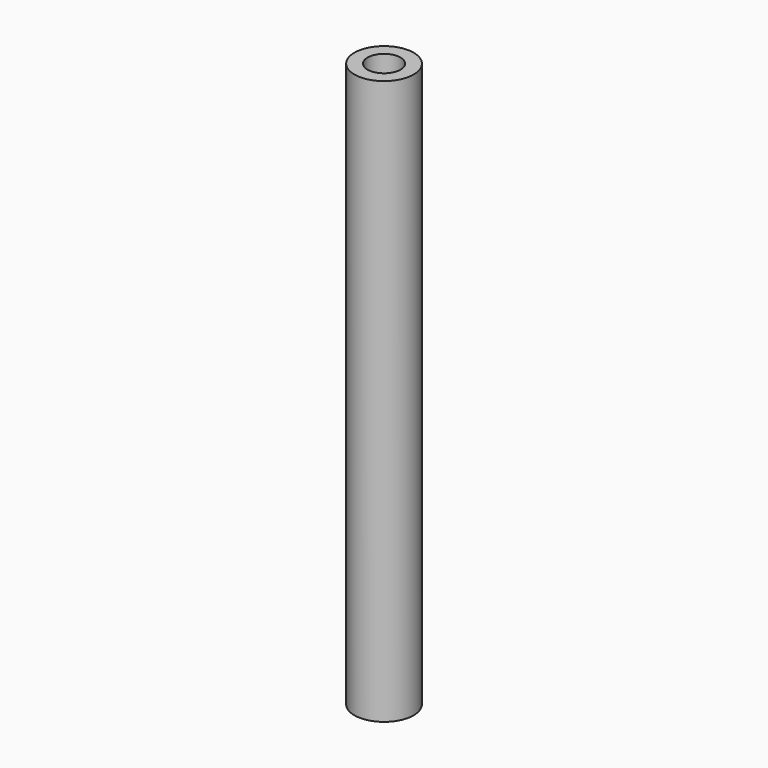
from build123d import *

# Parameters (mm, degrees)
F0_R     = 1.575
F1_DEPTH = 30
F3_D     = 1.75
F3_DEPTH = 6
F3_TIP   = 0.5257530416
F5_D     = 1.75
F5_DEPTH = 6
F5_TIP   = 0.5257530416


with BuildPart() as f1:
    # F0 (on Top) → F1 (new body)
    with BuildSketch(Plane.XY):
        Circle(F0_R)
    extrude(amount=F1_DEPTH)

    # F3
    with Locations(Plane.XY.offset(30)):
        with Locations((0, 0)):
            Hole(F3_D / 2, depth=F3_DEPTH)
            with Locations((0, 0, -(F3_DEPTH + F3_TIP / 2))):  # 118° drill point
                Cone(0, F3_D / 2, F3_TIP, mode=Mode.SUBTRACT)

    # F5
    with Locations(Plane(origin=(0, 0, 0), x_dir=(1, 0, 0), z_dir=(0, 0, -1))):
        with Locations((0, 0)):
            Hole(F5_D / 2, depth=F5_DEPTH)
            with Locations((0, 0, -(F5_DEPTH + F5_TIP / 2))):  # 118° drill point
                Cone(0, F5_D / 2, F5_TIP, mode=Mode.SUBTRACT)


solid = f1.part
